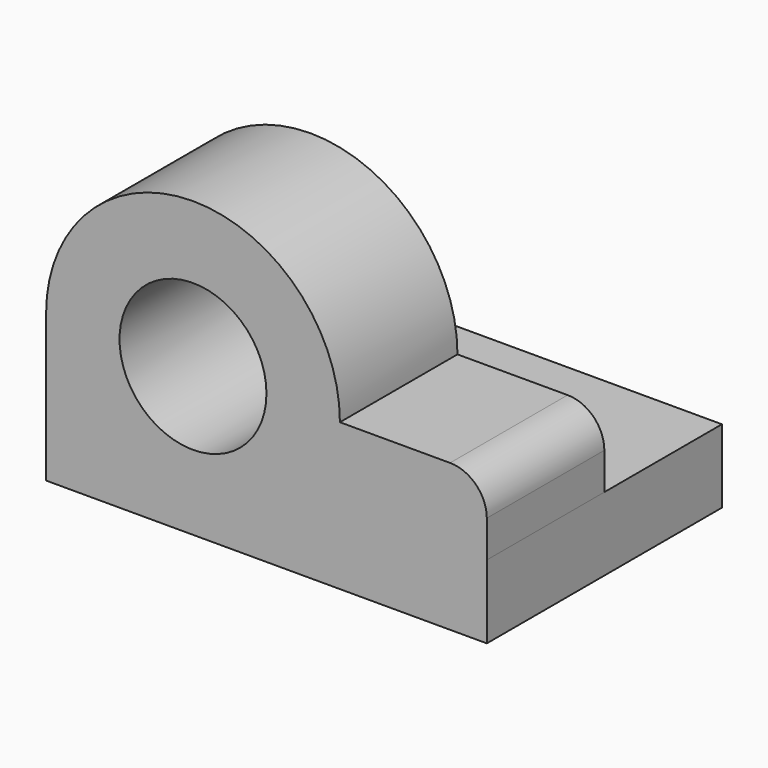
from build123d import *

# Parameters (mm, degrees)
F0_W     = 60
F0_H     = 40
F1_DEPTH = 10
F3_DEPTH = 20
F4_R     = 10
F5_DEPTH = 25


with BuildPart() as f1:
    # F0 (on Top) → F1 (new body)
    with BuildSketch(Plane.XY):
        with Locations((30, 20)):
            Rectangle(F0_W, F0_H)
    extrude(amount=F1_DEPTH)

    # F2 (on face) → F3 (join)
    with BuildSketch(Plane.XZ):
        with BuildLine():
            Line((54.994119, 20), (40, 20))
            ThreePointArc((40, 20), (20, 40), (0, 20))
            Line((0, 20), (0, 10))
            Line((0, 10), (60, 10))
            Line((60, 10), (59.994116, 15.005877))
            ThreePointArc((59.994116, 15.005877), (58.527575, 18.537611), (54.994119, 20))
        make_face()
    extrude(amount=-F3_DEPTH)

    # F4 (on Front) → F5 (cut)
    with BuildSketch(Plane.XZ):
        with Locations((19.999131, 20.18641)):
            Circle(F4_R)
    extrude(amount=-F5_DEPTH, mode=Mode.SUBTRACT)


solid = f1.part
